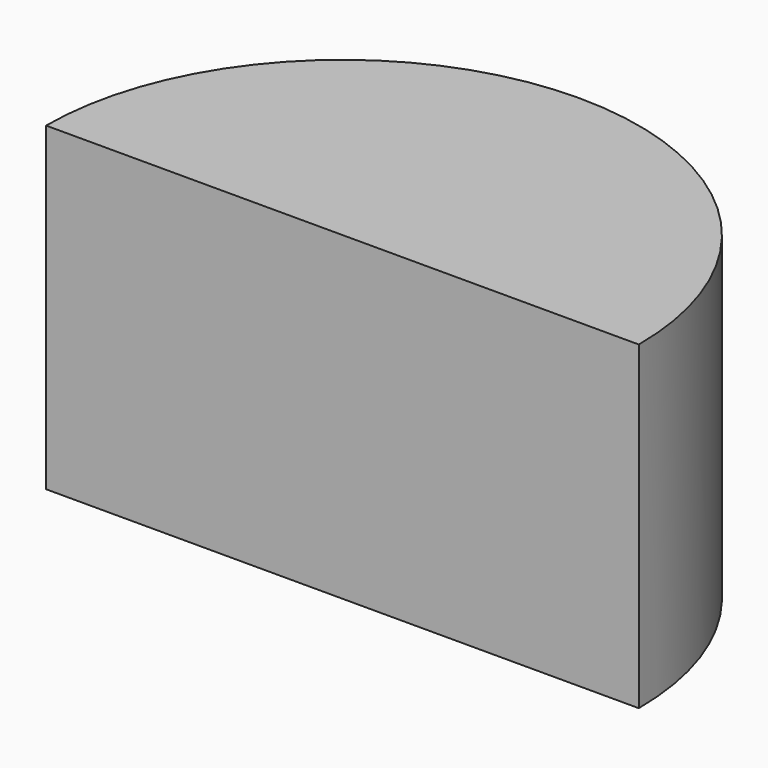
from build123d import *

# Parameters (mm, degrees)
F0_R     = 23.5098565324
F1_DEPTH = 25.4
F3_DEPTH = 25.4


with BuildPart() as f1:
    # F0 (on Top) → F1 (new body)
    with BuildSketch(Plane.XY):
        with Locations((-37.411365658, 49.7443117201)):
            Circle(F0_R)
    extrude(amount=F1_DEPTH)

    # F2 (on face) → F3 (cut)
    with BuildSketch(Plane.XY.offset(25.4)):
        with BuildLine():
            Line((-13.9015091256, 49.7443117201), (-37.411365658, 49.7443117201))
            Line((-37.411365658, 49.7443117201), (-60.9212221905, 49.7443117201))
            ThreePointArc((-60.9212221905, 49.7443117201), (-37.411365658, 26.2344551877), (-13.9015091256, 49.7443117201))
        make_face()
    extrude(amount=-F3_DEPTH, mode=Mode.SUBTRACT)


solid = f1.part
